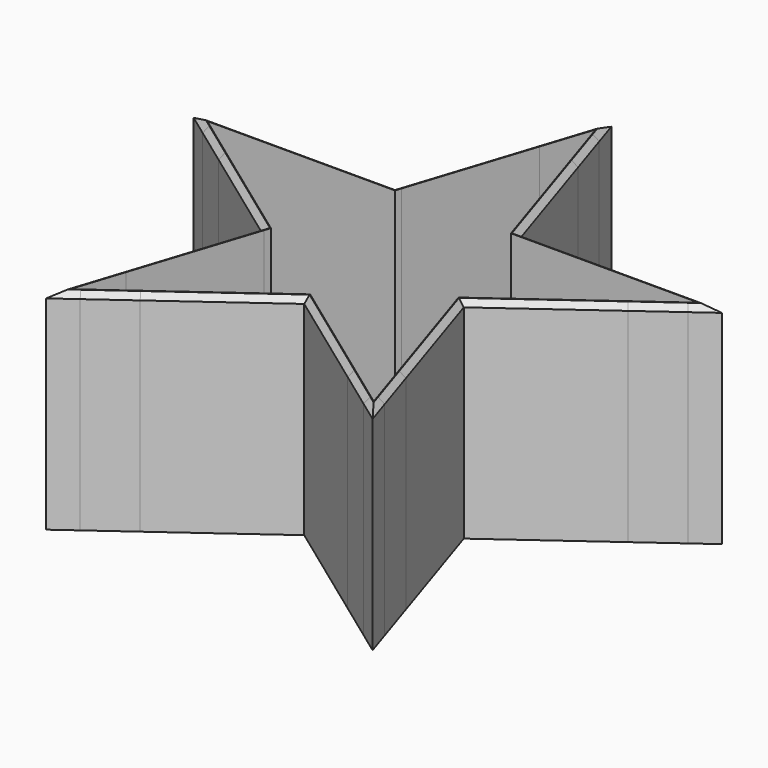
from build123d import *

# Parameters (mm, degrees)
F1_DEPTH = 25.4
F2_SIZE  = 0.6604


with BuildPart() as f1:
    # F0 (on Top) → F1 (new body)
    with BuildSketch(Plane.XY):
        with BuildLine():
            Line((-12.2607089005, -3.9837458116), (-17.0759435824, -18.8035143197))
            ThreePointArc((-17.0759435824, -18.8035143197), (-16.7805039882, -19.0676345125), (-16.4809797049, -19.3271132859))
            Line((-16.4809797049, -19.3271132859), (-11.6417368792, -4.4334553087))
            Line((-11.6417368792, -4.4334553087), (-12.2607089005, -3.9837458116))
        make_face()
        with BuildLine():
            Line((-12.2607089005, -3.9837458116), (-12.0242826264, -3.2561005601))
            Line((-12.0242826264, -3.2561005601), (-24.6935848241, 5.9486862866))
            ThreePointArc((-24.6935848241, 5.9486862866), (-24.7833872632, 5.5627075929), (-24.8671569615, 5.1753748319))
            Line((-24.8671569615, 5.1753748319), (-12.2607089005, -3.9837458116))
        make_face()
        with BuildLine():
            Line((-12.606448061, -22.0507928947), (0, -12.8916722513))
            Line((0, -12.8916722513), (-0.6189720213, -12.4419627541))
            Line((-0.6189720213, -12.4419627541), (-13.2882742189, -21.6467496009))
            ThreePointArc((-13.2882742189, -21.6467496009), (-12.9489371469, -21.8514307716), (-12.606448061, -22.0507928947))
        make_face()
        with BuildLine():
            Line((-17.0759435824, -18.8035143197), (-18.8367259586, -24.2226452514))
            Line((-18.8367259586, -24.2226452514), (-18.4541802113, -25.4))
            Line((-18.4541802113, -25.4), (-16.4809797049, -19.3271132859))
            ThreePointArc((-16.4809797049, -19.3271132859), (-16.7805039882, -19.0676345125), (-17.0759435824, -18.8035143197))
        make_face()
        with BuildLine():
            Line((-18.4541802113, -25.4), (-17.2162361687, -25.4))
            Line((-17.2162361687, -25.4), (-12.606448061, -22.0507928947))
            ThreePointArc((-12.606448061, -22.0507928947), (-12.9489371469, -21.8514307716), (-13.2882742189, -21.6467496009))
            Line((-13.2882742189, -21.6467496009), (-18.4541802113, -25.4))
        make_face()
        Polygon((-18.8367259586, -24.2226452514), (-19.8382437272, -27.305), (-17.2162361687, -25.4), (-18.4541802113, -25.4), align=None)
        with BuildLine():
            ThreePointArc((-1.9732005064, 25.3232399144), (-2.3680385381, 25.2893731334), (-2.7623001448, 25.2493504453))
            Line((-2.7623001448, 25.2493504453), (-7.5775348267, 10.4295819372))
            Line((-7.5775348267, 10.4295819372), (-6.8124433322, 10.4295819372))
            Line((-6.8124433322, 10.4295819372), (-1.9732005064, 25.3232399144))
        make_face()
        with BuildLine():
            Line((6.8124433322, 10.4295819372), (7.5775348267, 10.4295819372))
            Line((7.5775348267, 10.4295819372), (2.7623001448, 25.2493504453))
            ThreePointArc((2.7623001448, 25.2493504453), (2.3680385381, 25.2893731334), (1.9732005064, 25.3232399144))
            Line((1.9732005064, 25.3232399144), (6.8124433322, 10.4295819372))
        make_face()
        with BuildLine():
            Line((12.2607089005, -3.9837458116), (24.8671569615, 5.1753748319))
            ThreePointArc((24.8671569615, 5.1753748319), (24.7833872632, 5.5627075929), (24.6935848241, 5.9486862866))
            Line((24.6935848241, 5.9486862866), (12.0242826264, -3.2561005601))
            Line((12.0242826264, -3.2561005601), (12.2607089005, -3.9837458116))
        make_face()
        with BuildLine():
            Line((17.0759435824, -18.8035143197), (12.2607089005, -3.9837458116))
            Line((12.2607089005, -3.9837458116), (11.6417368792, -4.4334553087))
            Line((11.6417368792, -4.4334553087), (16.4809797049, -19.3271132859))
            ThreePointArc((16.4809797049, -19.3271132859), (16.7805039882, -19.0676345125), (17.0759435824, -18.8035143197))
        make_face()
        Polygon((11.6417368792, -4.4334553087), (12.2607089005, -3.9837458116), (12.0242826264, -3.2561005601), (11.4053106051, -3.7058100573), align=None)
        with BuildLine():
            ThreePointArc((24.6935848241, 5.9486862866), (24.7833872632, 5.5627075929), (24.8671569615, 5.1753748319))
            Line((24.8671569615, 5.1753748319), (29.4769450692, 8.5245819372))
            Line((29.4769450692, 8.5245819372), (29.8594908165, 9.7019366858))
            Line((29.8594908165, 9.7019366858), (24.6935848241, 5.9486862866))
        make_face()
        Polygon((29.8594908165, 9.7019366858), (29.4769450692, 8.5245819372), (32.0989526277, 10.4295819372), (28.8579730479, 10.4295819372), align=None)
        with BuildLine():
            ThreePointArc((23.1599615849, 10.4295819372), (23.31985896, 10.0669845578), (23.4740798445, 9.7019366858))
            Line((23.4740798445, 9.7019366858), (29.8594908165, 9.7019366858))
            Line((29.8594908165, 9.7019366858), (28.8579730479, 10.4295819372))
            Line((28.8579730479, 10.4295819372), (23.1599615849, 10.4295819372))
        make_face()
        with BuildLine():
            Line((7.8139611007, 9.7019366858), (23.4740798445, 9.7019366858))
            ThreePointArc((23.4740798445, 9.7019366858), (23.31985896, 10.0669845578), (23.1599615849, 10.4295819372))
            Line((23.1599615849, 10.4295819372), (7.5775348267, 10.4295819372))
            Line((7.5775348267, 10.4295819372), (7.8139611007, 9.7019366858))
        make_face()
        Polygon((7.0488696062, 9.7019366858), (7.8139611007, 9.7019366858), (7.5775348267, 10.4295819372), (6.8124433322, 10.4295819372), align=None)
        with BuildLine():
            Line((-23.4740798445, 9.7019366858), (-7.8139611007, 9.7019366858))
            Line((-7.8139611007, 9.7019366858), (-7.5775348267, 10.4295819372))
            Line((-7.5775348267, 10.4295819372), (-23.1599615849, 10.4295819372))
            ThreePointArc((-23.1599615849, 10.4295819372), (-23.31985896, 10.0669845578), (-23.4740798445, 9.7019366858))
        make_face()
        with BuildLine():
            Line((-23.1599615849, 10.4295819372), (-28.8579730479, 10.4295819372))
            Line((-28.8579730479, 10.4295819372), (-29.8594908165, 9.7019366858))
            Line((-29.8594908165, 9.7019366858), (-23.4740798445, 9.7019366858))
            ThreePointArc((-23.4740798445, 9.7019366858), (-23.31985896, 10.0669845578), (-23.1599615849, 10.4295819372))
        make_face()
        Polygon((-28.8579730479, 10.4295819372), (-32.0989526277, 10.4295819372), (-29.4769450692, 8.5245819372), (-29.8594908165, 9.7019366858), align=None)
        with BuildLine():
            Line((-29.8594908165, 9.7019366858), (-29.4769450692, 8.5245819372))
            Line((-29.4769450692, 8.5245819372), (-24.8671569615, 5.1753748319))
            ThreePointArc((-24.8671569615, 5.1753748319), (-24.7833872632, 5.5627075929), (-24.6935848241, 5.9486862866))
            Line((-24.6935848241, 5.9486862866), (-29.8594908165, 9.7019366858))
        make_face()
        Polygon((-7.8139611007, 9.7019366858), (-7.0488696062, 9.7019366858), (-6.8124433322, 10.4295819372), (-7.5775348267, 10.4295819372), align=None)
        Polygon((0, -12.8916722513), (0.6189720213, -12.4419627541), (0, -11.992253257), (-0.6189720213, -12.4419627541), align=None)
        with BuildLine():
            Line((13.2882742189, -21.6467496009), (0.6189720213, -12.4419627541))
            Line((0.6189720213, -12.4419627541), (0, -12.8916722513))
            Line((0, -12.8916722513), (12.606448061, -22.0507928947))
            ThreePointArc((12.606448061, -22.0507928947), (12.9489371469, -21.8514307716), (13.2882742189, -21.6467496009))
        make_face()
        with BuildLine():
            Line((17.2162361687, -25.4), (18.4541802113, -25.4))
            Line((18.4541802113, -25.4), (13.2882742189, -21.6467496009))
            ThreePointArc((13.2882742189, -21.6467496009), (12.9489371469, -21.8514307716), (12.606448061, -22.0507928947))
            Line((12.606448061, -22.0507928947), (17.2162361687, -25.4))
        make_face()
        with BuildLine():
            Line((18.8367259586, -24.2226452514), (17.0759435824, -18.8035143197))
            ThreePointArc((17.0759435824, -18.8035143197), (16.7805039882, -19.0676345125), (16.4809797049, -19.3271132859))
            Line((16.4809797049, -19.3271132859), (18.4541802113, -25.4))
            Line((18.4541802113, -25.4), (18.8367259586, -24.2226452514))
        make_face()
        Polygon((19.8382437272, -27.305), (18.8367259586, -24.2226452514), (18.4541802113, -25.4), (17.2162361687, -25.4), align=None)
        with BuildLine():
            Line((0, 31.3961266285), (-1.0015177686, 30.6684813771))
            Line((-1.0015177686, 30.6684813771), (-2.7623001448, 25.2493504453))
            ThreePointArc((-2.7623001448, 25.2493504453), (-2.3680385381, 25.2893731334), (-1.9732005064, 25.3232399144))
            Line((-1.9732005064, 25.3232399144), (0, 31.3961266285))
        make_face()
        with BuildLine():
            Line((2.7623001448, 25.2493504453), (1.0015177686, 30.6684813771))
            Line((1.0015177686, 30.6684813771), (0, 31.3961266285))
            Line((0, 31.3961266285), (1.9732005064, 25.3232399144))
            ThreePointArc((1.9732005064, 25.3232399144), (2.3680385381, 25.2893731334), (2.7623001448, 25.2493504453))
        make_face()
        Polygon((1.0015177686, 30.6684813771), (0, 33.7508361256), (-1.0015177686, 30.6684813771), (0, 31.3961266285), align=None)
        Polygon((-11.6417368792, -4.4334553087), (-11.4053106051, -3.7058100573), (-12.0242826264, -3.2561005601), (-12.2607089005, -3.9837458116), align=None)
    extrude(amount=F1_DEPTH)

    # F2
    f2_edges = [f1.edges().sort_by_distance(p)[0] for p in [
        (-19.838244, 10.429582, 25.4),
        (-22.179831, 3.222918, 25.4),
        (-16.049476, -15.644373, 25.4),
        (-9.919122, -20.098336, 25.4),
        (9.919122, -20.098336, 25.4),
        (16.049476, -15.644373, 25.4),
        (22.179831, 3.222918, 25.4),
        (19.838244, 10.429582, 25.4),
        (3.788767, 22.090209, 25.4),
        (-3.788767, 22.090209, 25.4),
    ]]
    chamfer(f2_edges, length=F2_SIZE)


solid = f1.part
